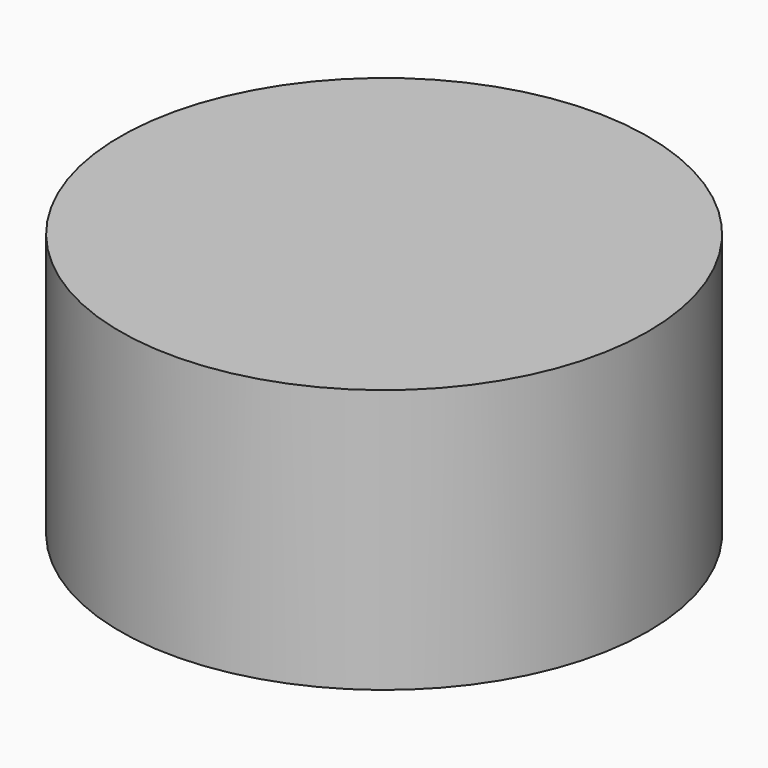
from build123d import *

# Parameters (mm, degrees)
CYLINDER_R     = 3
CYLINDER_DEPTH = 3


with BuildPart() as part:
    # Cylinder → Cylinder (new body)
    with BuildSketch(Plane.XY):
        Circle(CYLINDER_R)
    extrude(amount=CYLINDER_DEPTH)


solid = part.part
